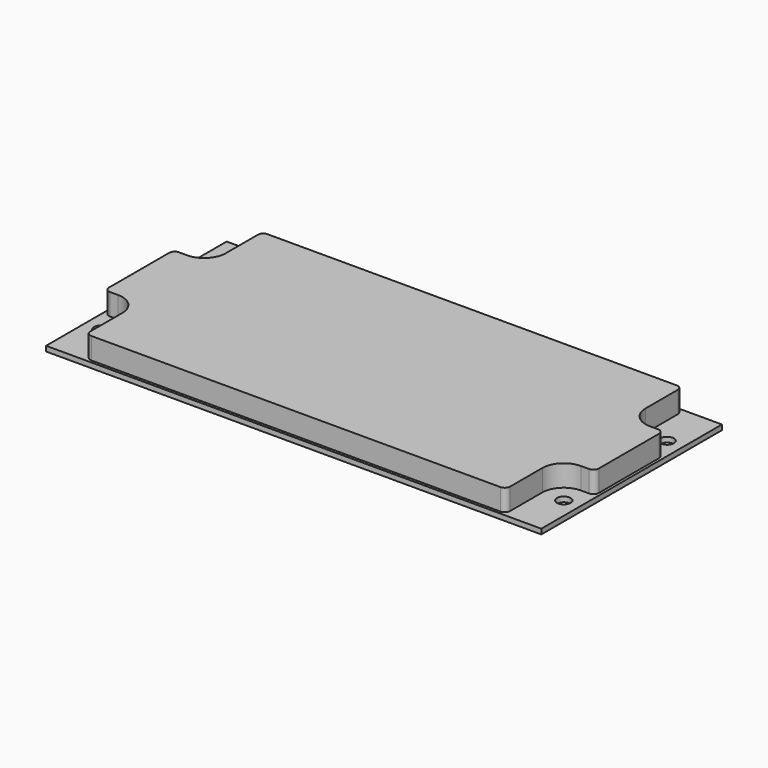
from build123d import *

# Parameters (mm, degrees)
F0_R     = 2
F0_R_2   = 4.7625
F1_DEPTH = 1.5
F3_DEPTH = 6.35


with BuildPart() as f1:
    # F0 (on Top) → F1 (new body)
    with BuildSketch(Plane.XY):
        with BuildLine():
            Line((-73.025, 12.7), (-73.025, -12.7))
            Line((-73.025, -12.7), (-68.2625, -12.7))
            ThreePointArc((-68.2625, -12.7), (-61.9125, -19.05), (-68.2625, -25.4))
            Line((-68.2625, -25.4), (-73.025, -25.4))
            Line((-73.025, -25.4), (-73.025, -33.2875))
            Line((-73.025, -33.2875), (73.025, -33.2875))
            Line((73.025, -33.2875), (73.025, -25.4))
            Line((73.025, -25.4), (68.2625, -25.4))
            ThreePointArc((68.2625, -25.4), (61.9125, -19.05), (68.2625, -12.7))
            Line((68.2625, -12.7), (73.025, -12.7))
            Line((73.025, -12.7), (73.025, 12.7))
            Line((73.025, 12.7), (68.2625, 12.7))
            ThreePointArc((68.2625, 12.7), (63.7723719395, 14.5598719395), (61.9125, 19.05))
            Line((61.9125, 19.05), (61.9125, 26.998527348))
            Line((61.9125, 26.998527348), (61.9125, 33.2875))
            Line((61.9125, 33.2875), (-73.025, 33.2875))
            Line((-73.025, 33.2875), (-73.025, 25.4))
            Line((-73.025, 25.4), (-68.2625, 25.4))
            ThreePointArc((-68.2625, 25.4), (-61.9125, 19.05), (-68.2625, 12.7))
            Line((-68.2625, 12.7), (-73.025, 12.7))
        make_face()
        with BuildLine():
            Line((73.025, 33.2875), (61.9125, 33.2875))
            Line((61.9125, 33.2875), (61.9125, 26.998527348))
            Line((61.9125, 26.998527348), (61.9125, 19.05))
            ThreePointArc((61.9125, 19.05), (63.7723719395, 23.5401280605), (68.2625, 25.4))
            Line((68.2625, 25.4), (73.025, 25.4))
            Line((73.025, 25.4), (73.025, 33.2875))
        make_face()
        with BuildLine():
            Line((-73.025, 19.05), (-73.025, 12.7))
            Line((-73.025, 12.7), (-68.2625, 12.7))
            ThreePointArc((-68.2625, 12.7), (-61.9125, 19.05), (-68.2625, 25.4))
            Line((-68.2625, 25.4), (-73.025, 25.4))
            Line((-73.025, 25.4), (-73.025, 19.05))
        make_face()
        with BuildLine():
            ThreePointArc((-63.5, 19.05), (-68.2625, 14.2875), (-73.025, 19.05))
            ThreePointArc((-73.025, 19.05), (-68.2625, 23.8125), (-63.5, 19.05))
        make_face(mode=Mode.SUBTRACT)
        with BuildLine():
            ThreePointArc((-63.5, 19.05), (-68.2625, 23.8125), (-73.025, 19.05))
            ThreePointArc((-73.025, 19.05), (-68.2625, 14.2875), (-63.5, 19.05))
        make_face()
        with Locations((-68.2625, 19.05)):
            Circle(F0_R, mode=Mode.SUBTRACT)
        with BuildLine():
            Line((-73.025, -12.7), (-73.025, -19.05))
            Line((-73.025, -19.05), (-73.025, -25.4))
            Line((-73.025, -25.4), (-68.2625, -25.4))
            ThreePointArc((-68.2625, -25.4), (-61.9125, -19.05), (-68.2625, -12.7))
            Line((-68.2625, -12.7), (-73.025, -12.7))
        make_face()
        with BuildLine():
            ThreePointArc((-73.025, -19.05), (-68.2625, -14.2875), (-63.5, -19.05))
            ThreePointArc((-63.5, -19.05), (-68.2625, -23.8125), (-73.025, -19.05))
        make_face(mode=Mode.SUBTRACT)
        with BuildLine():
            ThreePointArc((-73.025, -19.05), (-68.2625, -23.8125), (-63.5, -19.05))
            ThreePointArc((-63.5, -19.05), (-68.2625, -14.2875), (-73.025, -19.05))
        make_face()
        with Locations((-68.2625, -19.05)):
            Circle(F0_R, mode=Mode.SUBTRACT)
        with BuildLine():
            Line((68.2625, 12.7), (73.025, 12.7))
            Line((73.025, 12.7), (73.025, 19.05))
            Line((73.025, 19.05), (73.025, 25.4))
            Line((73.025, 25.4), (68.2625, 25.4))
            ThreePointArc((68.2625, 25.4), (63.7723719395, 23.5401280605), (61.9125, 19.05))
            ThreePointArc((61.9125, 19.05), (63.7723719395, 14.5598719395), (68.2625, 12.7))
        make_face()
        with Locations((68.2625, 19.05)):
            Circle(F0_R_2, mode=Mode.SUBTRACT)
        with Locations((68.2625, 19.05)):
            Circle(F0_R_2)
        with Locations((68.2625, 19.05)):
            Circle(F0_R, mode=Mode.SUBTRACT)
        with BuildLine():
            Line((68.2625, -25.4), (73.025, -25.4))
            Line((73.025, -25.4), (73.025, -19.05))
            Line((73.025, -19.05), (73.025, -12.7))
            Line((73.025, -12.7), (68.2625, -12.7))
            ThreePointArc((68.2625, -12.7), (61.9125, -19.05), (68.2625, -25.4))
        make_face()
        with Locations((68.2625, -19.05)):
            Circle(F0_R_2, mode=Mode.SUBTRACT)
        with Locations((68.2625, -19.05)):
            Circle(F0_R_2)
        with Locations((68.2625, -19.05)):
            Circle(F0_R, mode=Mode.SUBTRACT)
        with BuildLine():
            Line((-73.025, 12.7), (-73.025, -12.7))
            Line((-73.025, -12.7), (-68.2625, -12.7))
            ThreePointArc((-68.2625, -12.7), (-61.9125, -19.05), (-68.2625, -25.4))
            Line((-68.2625, -25.4), (-73.025, -25.4))
            Line((-73.025, -25.4), (-73.025, -33.2875))
            Line((-73.025, -33.2875), (73.025, -33.2875))
            Line((73.025, -33.2875), (73.025, -25.4))
            Line((73.025, -25.4), (68.2625, -25.4))
            ThreePointArc((68.2625, -25.4), (61.9125, -19.05), (68.2625, -12.7))
            Line((68.2625, -12.7), (73.025, -12.7))
            Line((73.025, -12.7), (73.025, 12.7))
            Line((73.025, 12.7), (68.2625, 12.7))
            ThreePointArc((68.2625, 12.7), (63.7723719395, 14.5598719395), (61.9125, 19.05))
            Line((61.9125, 19.05), (61.9125, 26.998527348))
            Line((61.9125, 26.998527348), (61.9125, 33.2875))
            Line((61.9125, 33.2875), (-73.025, 33.2875))
            Line((-73.025, 33.2875), (-73.025, 25.4))
            Line((-73.025, 25.4), (-68.2625, 25.4))
            ThreePointArc((-68.2625, 25.4), (-61.9125, 19.05), (-68.2625, 12.7))
            Line((-68.2625, 12.7), (-73.025, 12.7))
        make_face()
    extrude(amount=F1_DEPTH)


with BuildPart() as f3:
    # F2 (on face) → F3 (new body)
    with BuildSketch(Plane.XY.offset(1.5)):
        with BuildLine():
            Line((70.637, 12.7), (68.2625, 12.7))
            ThreePointArc((68.2625, 12.7), (63.7723719395, 14.5598719395), (61.9125, 19.05))
            Line((61.9125, 19.05), (61.9125, 30.8995))
            ThreePointArc((61.9125, 30.8995), (61.4473855685, 32.0223855685), (60.3245, 32.4875))
            Line((60.3245, 32.4875), (-60.3245, 32.4875))
            ThreePointArc((-60.3245, 32.4875), (-61.4473855685, 32.0223855685), (-61.9125, 30.8995))
            Line((-61.9125, 30.8995), (-61.9125, 19.05))
            ThreePointArc((-61.9125, 19.05), (-63.7723719395, 14.5598719395), (-68.2625, 12.7))
            Line((-68.2625, 12.7), (-70.637, 12.7))
            ThreePointArc((-70.637, 12.7), (-71.7598855685, 12.2348855685), (-72.225, 11.112))
            Line((-72.225, 11.112), (-72.225, -11.112))
            ThreePointArc((-72.225, -11.112), (-71.7598855685, -12.2348855685), (-70.637, -12.7))
            Line((-70.637, -12.7), (-68.2625, -12.7))
            ThreePointArc((-68.2625, -12.7), (-63.7723719395, -14.5598719395), (-61.9125, -19.05))
            Line((-61.9125, -19.05), (-61.9125, -30.8995))
            ThreePointArc((-61.9125, -30.8995), (-61.4473855685, -32.0223855685), (-60.3245, -32.4875))
            Line((-60.3245, -32.4875), (60.3245, -32.4875))
            ThreePointArc((60.3245, -32.4875), (61.4473855685, -32.0223855685), (61.9125, -30.8995))
            Line((61.9125, -30.8995), (61.9125, -19.05))
            ThreePointArc((61.9125, -19.05), (63.7723719395, -14.5598719395), (68.2625, -12.7))
            Line((68.2625, -12.7), (70.637, -12.7))
            ThreePointArc((70.637, -12.7), (71.7598855685, -12.2348855685), (72.225, -11.112))
            Line((72.225, -11.112), (72.225, 11.112))
            ThreePointArc((72.225, 11.112), (71.7598855685, 12.2348855685), (70.637, 12.7))
        make_face()
    extrude(amount=F3_DEPTH)


solid = Compound([f1.part, f3.part])
